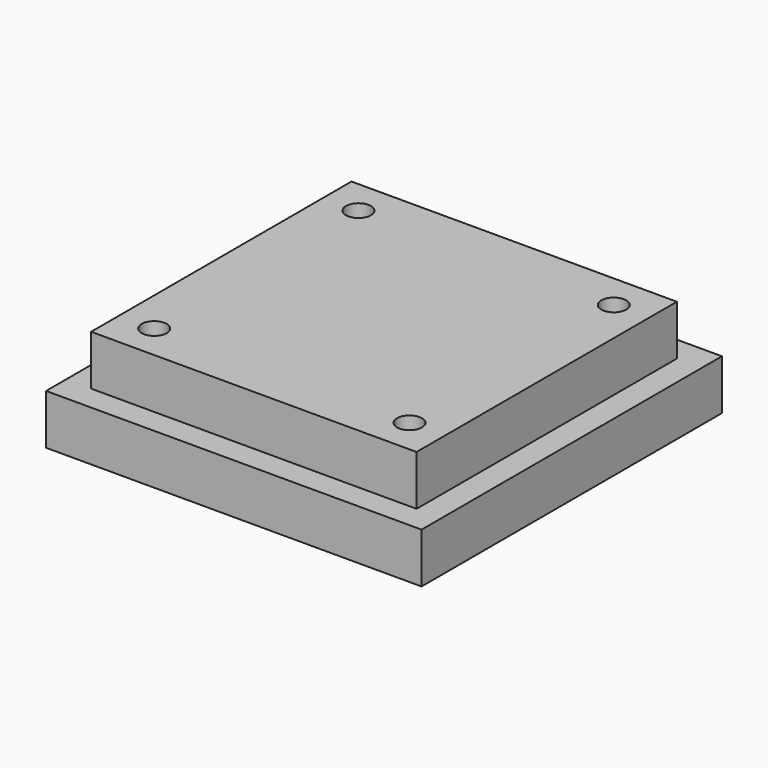
from build123d import *

# Parameters (mm, degrees)
F0_W     = 75
F0_H     = 75
F1_DEPTH = 10
F2_W     = 65
F2_H     = 65
F3_DEPTH = 10
F4_R     = 2.5
F5_DEPTH = 20.001


with BuildPart() as f1:
    # F0 (on Top) → F1 (new body)
    with BuildSketch(Plane.XY):
        Rectangle(F0_W, F0_H)
    extrude(amount=F1_DEPTH)

    # F2 (on face) → F3 (join)
    with BuildSketch(Plane.XY.offset(10)):
        Rectangle(F2_W, F2_H)
    extrude(amount=F3_DEPTH)

    # F4 (on face) → F5 (cut, through all)
    with BuildSketch(Plane.XY.offset(20)):
        with Locations((-25.5, 25.5)):
            Circle(F4_R)
        with Locations((25.5, 25.5)):
            Circle(F4_R)
        with Locations((25.5, -25.5)):
            Circle(F4_R)
        with Locations((-25.5, -25.5)):
            Circle(F4_R)
    extrude(amount=-F5_DEPTH, mode=Mode.SUBTRACT)


solid = f1.part
